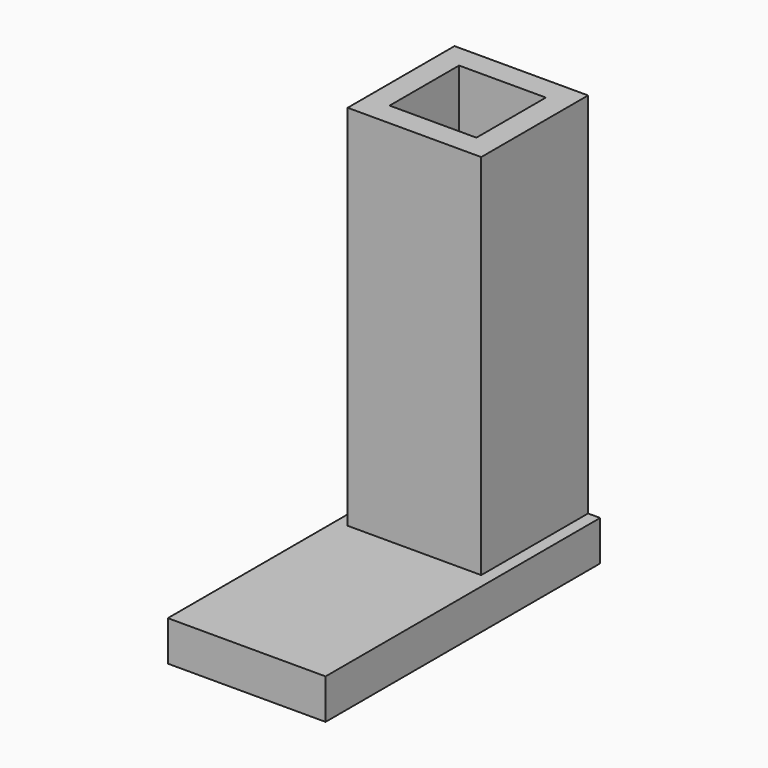
from build123d import *

# Parameters (mm, degrees)
F0_W     = 27.0002
F0_H     = 58.7502
F1_DEPTH = 6.858
F2_W     = 11.43
F2_H     = 22.86
F3_DEPTH = 69.85
F4_W     = 14.859
F4_H     = 14.859
F5_DEPTH = 76.2


with BuildPart() as f1:
    # F0 (on Top) → F1 (new body)
    with BuildSketch(Plane.XY):
        with Locations((-21.517536, -29.3751)):
            Rectangle(F0_W, F0_H)
    extrude(amount=F1_DEPTH)

    # F2 (on Top) → F3 (join)
    with BuildSketch(Plane.XY):
        with Locations((-27.232536, -11.43)):
            Rectangle(F2_W, F2_H)
        with Locations((-15.802536, -11.43)):
            Rectangle(F2_W, F2_H)
    extrude(amount=F3_DEPTH)

    # F4 (on face) → F5 (cut)
    with BuildSketch(Plane.XY.offset(69.85)):
        with Locations((-21.530236, -11.4427)):
            Rectangle(F4_W, F4_H)
    extrude(amount=-F5_DEPTH, mode=Mode.SUBTRACT)


solid = f1.part
